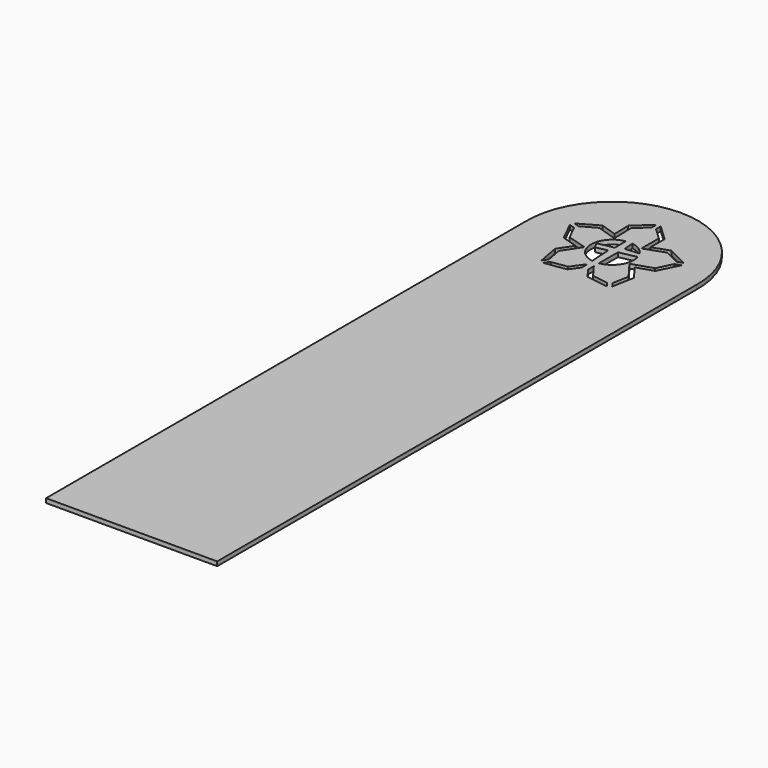
from build123d import *

# Parameters (mm, degrees)
F1_DEPTH = 1


with BuildPart() as f1:
    # F0 (on Top) → F1 (new body)
    with BuildSketch(Plane.XY):
        with BuildLine():
            Line((-6.292982, -85.910741), (-6.292982, 54.089259))
            ThreePointArc((-6.292982, 54.089259), (-26.288129, 74.529796), (-46.283277, 54.089259))
            Line((-46.283277, 54.089259), (-46.283277, -85.910741))
            Line((-46.283277, -85.910741), (-6.292982, -85.910741))
        make_face()
        Polygon((-39.135793, 58.156283), (-37.816775, 57.748809), (-36.096451, 54.285815), (-31.550451, 52.930429), (-34.276498, 48.838314), (-33.578717, 45.068727), (-34.385781, 43.934663), (-35.333624, 49.055149), (-33.132877, 52.358728), (-36.79867, 53.451681), align=None, mode=Mode.SUBTRACT)
        Polygon((-33.571035, 43.354844), (-32.763971, 44.488907), (-29.039516, 45.054648), (-26.94571, 47.962227), (-26.847435, 46.38745), (-28.473701, 44.129124), align=None, mode=Mode.SUBTRACT)
        Polygon((-29.588758, 64.103655), (-29.478391, 59.056225), (-34.174348, 60.578728), (-37.521616, 58.704257), (-38.840633, 59.111731), (-34.281651, 61.664762), (-30.508922, 60.441584), (-30.598373, 64.532466), (-26.796919, 68.043156), (-26.805587, 66.673948), align=None, mode=Mode.SUBTRACT)
        with BuildLine():
            Line((-30.048708, 54.077201), (-27.361293, 54.621597))
            Line((-27.361293, 54.621597), (-27.047152, 49.587743))
            ThreePointArc((-27.047152, 49.587743), (-31.287939, 54.486218), (-27.133178, 59.457868))
            Line((-27.133178, 59.457868), (-27.056337, 56.245149))
            Line((-27.056337, 56.245149), (-30.742993, 55.498334))
            Line((-30.742993, 55.498334), (-30.048708, 54.077201))
        make_face(mode=Mode.SUBTRACT)
        Polygon((-25.498227, 46.435824), (-25.498227, 48.115821), (-23.230623, 45.054648), (-19.486444, 44.488301), (-18.682042, 43.355251), (-23.788412, 44.127645), align=None, mode=Mode.SUBTRACT)
        with BuildLine():
            Line((-25.498227, 49.592584), (-25.498227, 55.169558))
            Line((-25.498227, 55.169558), (-21.502735, 55.978935))
            ThreePointArc((-21.502735, 55.978935), (-22.049338, 51.877881), (-25.498227, 49.592584))
        make_face(mode=Mode.SUBTRACT)
        Polygon((-17.866638, 43.934143), (-18.67104, 45.067193), (-17.961659, 48.838314), (-21.025808, 52.930429), (-16.2674, 54.475481), (-14.564381, 57.960362), (-13.23457, 58.40398), (-15.555168, 53.655348), (-19.387565, 52.410971), (-16.897593, 49.085659), align=None, mode=Mode.SUBTRACT)
        with BuildLine():
            Line((-22.088989, 57.244058), (-25.388635, 56.97))
            Line((-25.388635, 56.97), (-25.597259, 59.481836))
            ThreePointArc((-25.597259, 59.481836), (-23.599271, 58.745248), (-22.088989, 57.244058))
        make_face(mode=Mode.SUBTRACT)
        Polygon((-13.55102, 59.352589), (-14.880832, 58.908971), (-18.361953, 60.687206), (-23.098863, 59.010709), (-23.098863, 64.103655), (-25.805607, 66.667618), (-25.796939, 68.036826), (-22.098863, 64.533824), (-22.098863, 60.425414), (-18.290102, 61.773419), align=None, mode=Mode.SUBTRACT)
    extrude(amount=F1_DEPTH)


solid = f1.part
